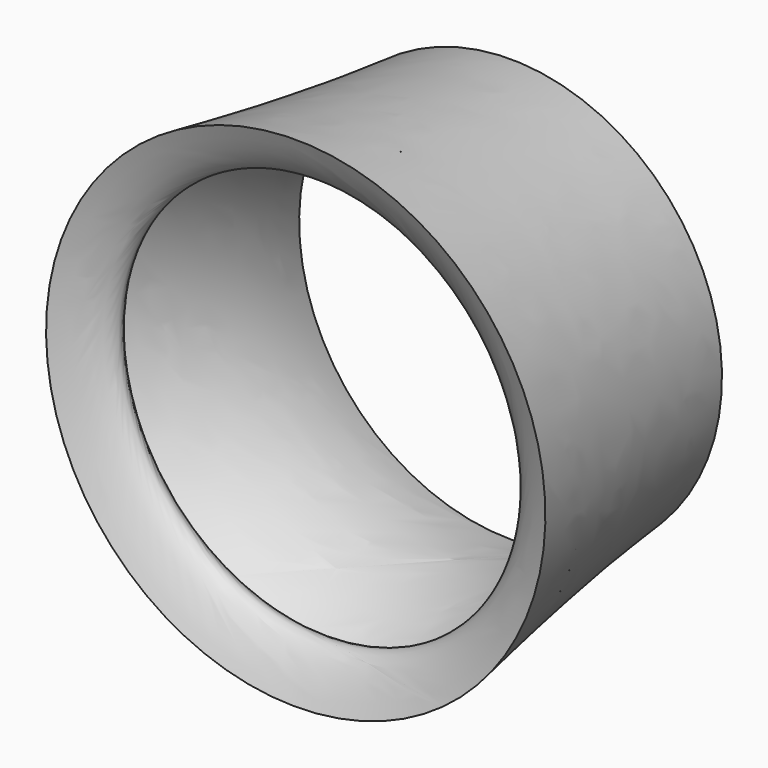
from build123d import *


with BuildPart() as f2:
    # F1 (on Top) → F2 (revolve)
    with BuildSketch(Plane.XY):
        Polygon((-24.063443765, 24.2507345974), (-39.8420030611, 74.7841299484), (-75.7159275264, 35.8527990874), align=None)
    revolve(axis=Axis((-51.7398007214, 0, 37.9603020847), (0, -1, 0)))


solid = f2.part
